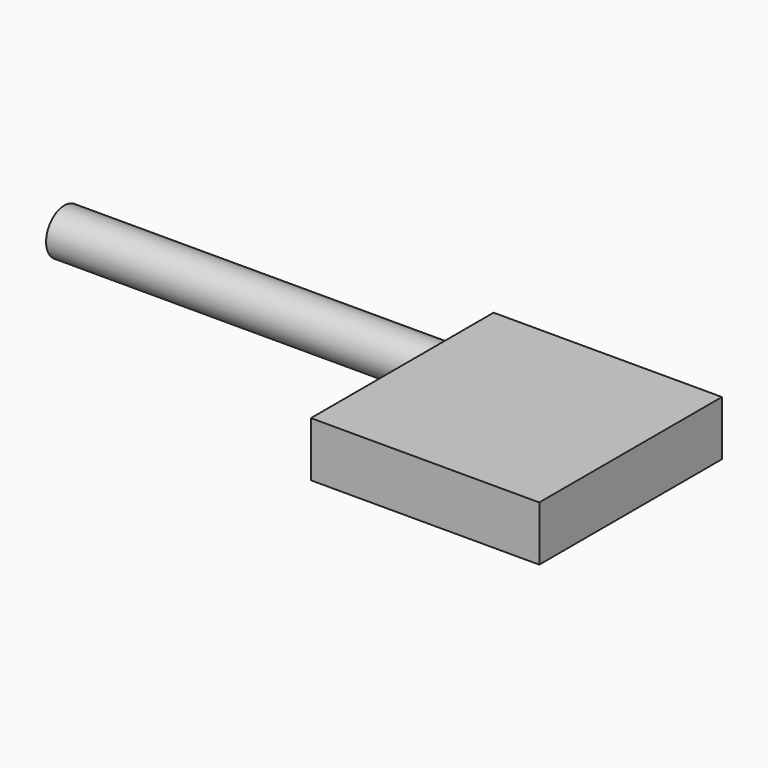
from build123d import *

# Parameters (mm, degrees)
F0_W     = 15
F0_H     = 15
F1_DEPTH = 3.6
F2_R     = 1.5
F3_DEPTH = 25


with BuildPart() as f1:
    # F0 (on Top) → F1 (new body)
    with BuildSketch(Plane.XY):
        Rectangle(F0_W, F0_H)
    extrude(amount=F1_DEPTH)

    # F2 (on face) → F3 (join)
    with BuildSketch(Plane(origin=(-7.5, 0, 0), x_dir=(0, -1, 0), z_dir=(-1, 0, 0))):
        with Locations((-3.5, 1.8)):
            Circle(F2_R)
    extrude(amount=F3_DEPTH)


solid = f1.part
